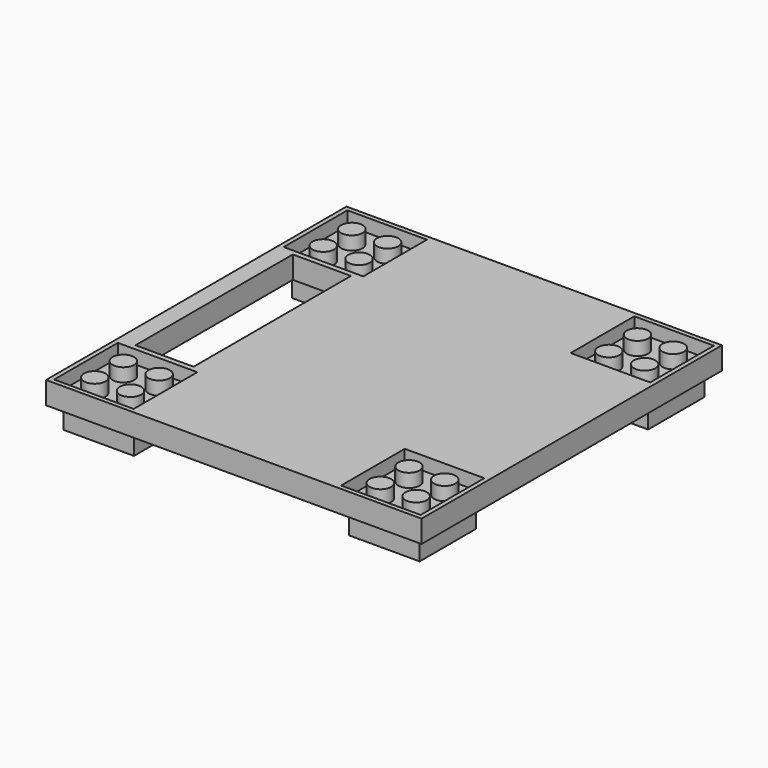
from build123d import *

# Parameters (mm, degrees)
SKETCH_W        = 84
SKETCH_H        = 84
PAD_DEPTH       = 7
SKETCH006_W     = 13.4
SKETCH006_H     = 13.4
SKETCH006_R     = 3.25
POCKET_DEPTH    = 5
SKETCH004_R     = 2.4
PAD001_DEPTH    = 3
SKETCH011_W     = 84
SKETCH011_H     = 84
SKETCH011_W_2   = 17.8
SKETCH011_H_2   = 17.8
PAD002_DEPTH    = 3
SKETCH005_W     = 13
SKETCH005_H     = 44
POCKET001_DEPTH = 10.001
SKETCH012_W     = 48.1
SKETCH012_H     = 5
POCKET002_DEPTH = 84.001
SKETCH013_W     = 48.1
SKETCH013_H     = 5
POCKET003_DEPTH = 84.001


with BuildPart() as part:
    # Sketch → Pad (new body)
    with BuildSketch(Plane.XY):
        Rectangle(SKETCH_W, SKETCH_H)
    extrude(amount=PAD_DEPTH)

    # Sketch006 → Pocket (cut)
    with BuildSketch(Plane(origin=(0, 0, 0), x_dir=(1, 0, 0), z_dir=(0, 0, -1))):
        with Locations((-31.95, 31.95)):
            Rectangle(SKETCH006_W, SKETCH006_H)
        with Locations((-31.95, 31.95)):
            Circle(SKETCH006_R, mode=Mode.SUBTRACT)
        with Locations((31.95, 31.95)):
            Rectangle(SKETCH006_W, SKETCH006_H)
        with Locations((31.95, 31.95)):
            Circle(SKETCH006_R, mode=Mode.SUBTRACT)
        with Locations((-31.95, -31.95)):
            Rectangle(SKETCH006_W, SKETCH006_H)
        with Locations((-31.95, -31.95)):
            Circle(SKETCH006_R, mode=Mode.SUBTRACT)
        with Locations((31.95, -31.95)):
            Rectangle(SKETCH006_W, SKETCH006_H)
        with Locations((31.95, -31.95)):
            Circle(SKETCH006_R, mode=Mode.SUBTRACT)
        Polygon((-42, -24.05), (-42, -42), (-24.05, -42), (-24.05, -39.85), (-39.85, -39.85), (-39.85, -24.05), align=None)
        Polygon((24.05, -42), (42, -42), (42, -24.05), (39.85, -24.05), (39.85, -39.85), (24.05, -39.85), align=None)
        Polygon((42, 24.05), (42, 42), (24.05, 42), (24.05, 39.85), (39.85, 39.85), (39.85, 24.05), align=None)
        Polygon((-42, 24.05), (-42, 42), (-24.05, 42), (-24.05, 39.85), (-39.85, 39.85), (-39.85, 24.05), align=None)
    extrude(amount=-POCKET_DEPTH, mode=Mode.SUBTRACT)

    # Sketch004 → Pad001 (new body)
    with BuildSketch(Plane.XY.offset(7)):
        with Locations((-35.95, -35.95)):
            Circle(SKETCH004_R)
        with Locations((35.95, 35.95)):
            Circle(SKETCH004_R)
        with Locations((35.95, -35.95)):
            Circle(SKETCH004_R)
        with Locations((-35.95, 35.95)):
            Circle(SKETCH004_R)
        with Locations((-27.95, 35.95)):
            Circle(SKETCH004_R)
        with Locations((-27.95, 27.95)):
            Circle(SKETCH004_R)
        with Locations((27.95, 27.95)):
            Circle(SKETCH004_R)
        with Locations((27.95, 35.95)):
            Circle(SKETCH004_R)
        with Locations((-35.95, 27.95)):
            Circle(SKETCH004_R)
        with Locations((35.95, 27.95)):
            Circle(SKETCH004_R)
        with Locations((27.95, -27.95)):
            Circle(SKETCH004_R)
        with Locations((27.95, -35.95)):
            Circle(SKETCH004_R)
        with Locations((35.95, -27.95)):
            Circle(SKETCH004_R)
        with Locations((-27.95, -27.95)):
            Circle(SKETCH004_R)
        with Locations((-27.95, -35.95)):
            Circle(SKETCH004_R)
        with Locations((-35.95, -27.95)):
            Circle(SKETCH004_R)
    extrude(amount=PAD001_DEPTH)

    # Sketch011 → Pad002 (new body)
    with BuildSketch(Plane.XY.offset(7)):
        Rectangle(SKETCH011_W, SKETCH011_H)
        with Locations((-32.1, 32.1)):
            Rectangle(SKETCH011_W_2, SKETCH011_H_2, mode=Mode.SUBTRACT)
        with Locations((-32.1, -32.1)):
            Rectangle(SKETCH011_W_2, SKETCH011_H_2, mode=Mode.SUBTRACT)
        with Locations((32.1, 32.1)):
            Rectangle(SKETCH011_W_2, SKETCH011_H_2, mode=Mode.SUBTRACT)
        with Locations((32.1, -32.1)):
            Rectangle(SKETCH011_W_2, SKETCH011_H_2, mode=Mode.SUBTRACT)
    extrude(amount=PAD002_DEPTH)

    # Sketch005 → Pocket001 (cut, through all)
    with BuildSketch(Plane.XY.offset(10)):
        with Locations((-31.5, 0)):
            Rectangle(SKETCH005_W, SKETCH005_H)
    extrude(amount=-POCKET001_DEPTH, mode=Mode.SUBTRACT)

    # Sketch012 → Pocket002 (cut, through all)
    with BuildSketch(Plane.XZ.offset(42)):
        with Locations((0, 2.5)):
            Rectangle(SKETCH012_W, SKETCH012_H)
    extrude(amount=-POCKET002_DEPTH, mode=Mode.SUBTRACT)

    # Sketch013 → Pocket003 (cut, through all)
    with BuildSketch(Plane.YZ.offset(42)):
        with Locations((0, 2.5)):
            Rectangle(SKETCH013_W, SKETCH013_H)
    extrude(amount=-POCKET003_DEPTH, mode=Mode.SUBTRACT)


solid = part.part
